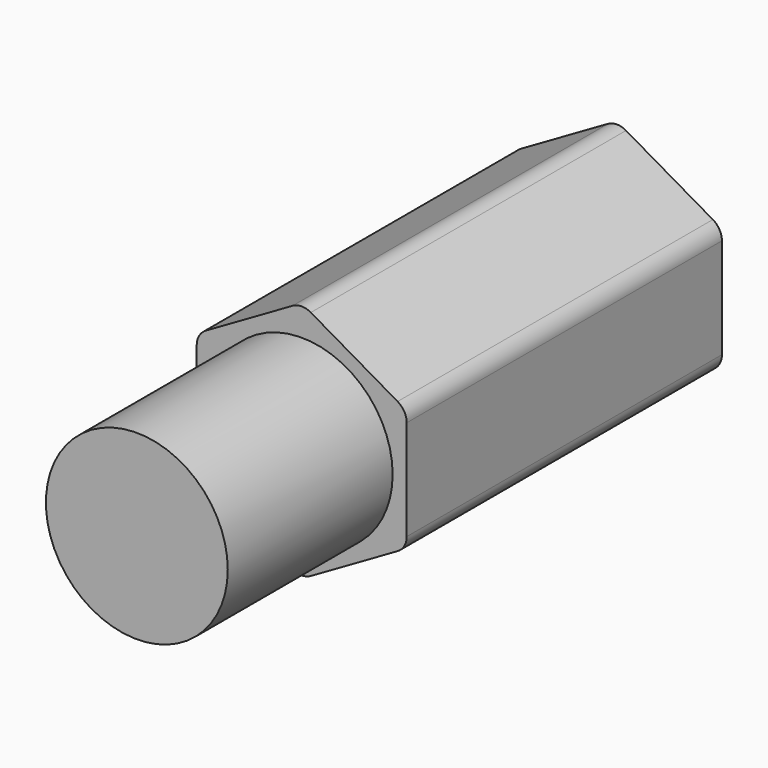
from build123d import *

# Parameters (mm, degrees)
PRISM001_DEPTH    = 6.5
FILLET018_R       = 0.3
CYLINDER012_R     = 1.5
CYLINDER012_DEPTH = 3.4
CYLINDER013_R     = 1
CYLINDER013_DEPTH = 6.5


with BuildPart() as part:
    # Prism001 → Prism001 (join)
    with BuildSketch(Plane(origin=(12.5, 25.5, 6.3), x_dir=(0, 0, -1), z_dir=(0, -1, 0))):
        Polygon((2, 0), (1, 1.732051), (-1, 1.732051), (-2, 0), (-1, -1.732051), (1, -1.732051), align=None)
    extrude(amount=PRISM001_DEPTH)

    # Fillet018
    fillet018_edges = [part.edges().sort_by_distance(p)[0] for p in [
        (12.5, 22.25, 8.3),
        (14.232051, 22.25, 7.3),
        (10.767949, 22.25, 7.3),
        (14.232051, 22.25, 5.3),
        (12.5, 22.25, 4.3),
        (10.767949, 22.25, 5.3),
    ]]
    fillet(fillet018_edges, radius=FILLET018_R)

    # Cylinder012 → Cylinder012 (join)
    with BuildSketch(Plane(origin=(12.5, 19, 6.3), x_dir=(1, 0, 0), z_dir=(0, -1, 0))):
        Circle(CYLINDER012_R)
    extrude(amount=CYLINDER012_DEPTH)

    # Cylinder013 → Cylinder013 (cut)
    with BuildSketch(Plane(origin=(12.5, 26, 6.3), x_dir=(1, 0, 0), z_dir=(0, -1, 0))):
        Circle(CYLINDER013_R)
    extrude(amount=CYLINDER013_DEPTH, mode=Mode.SUBTRACT)


with BuildPart() as part_1:
    # Body007 placement: moved
    add(part.part.moved(Location((-25, 0, 0))))


solid = part_1.part
